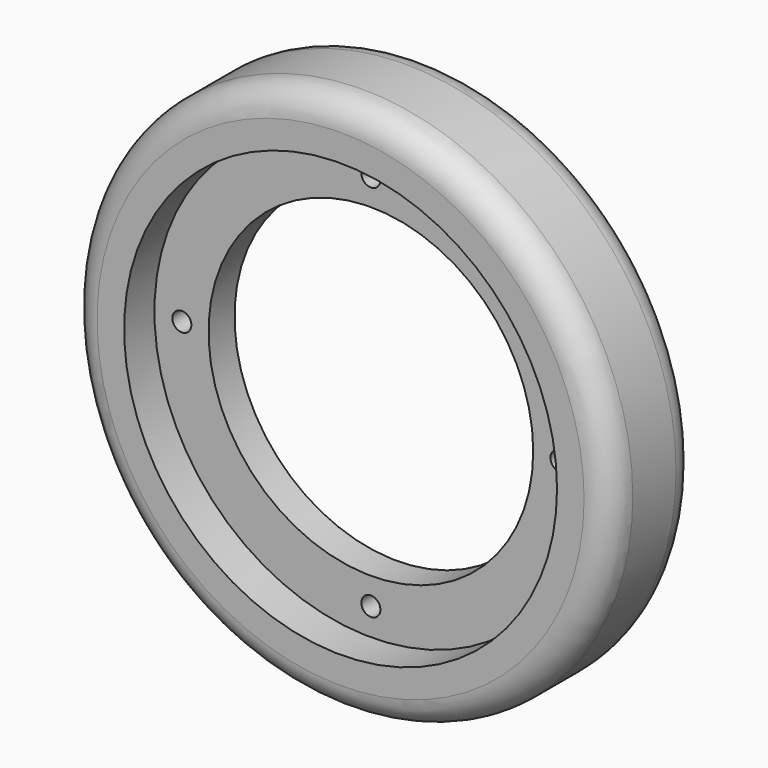
from build123d import *

# Parameters (mm, degrees)
F0_R      = 63.5
F1_DEPTH  = 12.7
F2_R      = 6.35
F3_R      = 50.8
F4_DEPTH  = 8.89
F5_R      = 50.8
F6_DEPTH  = 8.89
F7_R      = 38.1
F8_DEPTH  = 25.401
F9_R      = 2.230901
F10_DEPTH = 16.511


with BuildPart() as f1:
    # F0 (on Front) → F1 (new body, symmetric)
    with BuildSketch(Plane.XZ):
        Circle(F0_R)
    extrude(amount=F1_DEPTH, both=True)

    # F2
    f2_edges = [f1.edges().sort_by_distance(p)[0] for p in [
        (-63.5, -12.7, 0),
        (-63.5, 12.7, 0),
    ]]
    fillet(f2_edges, radius=F2_R)

    # F3 (on face) → F4 (cut)
    with BuildSketch(Plane.XZ.offset(12.7)):
        Circle(F3_R)
    extrude(amount=-F4_DEPTH, mode=Mode.SUBTRACT)

    # F5 (on face) → F6 (cut)
    with BuildSketch(Plane(origin=(0, 12.7, 0), x_dir=(-1, 0, 0), z_dir=(0, 1, 0))):
        Circle(F5_R)
    extrude(amount=-F6_DEPTH, mode=Mode.SUBTRACT)

    # F7 (on face) → F8 (cut, through all)
    with BuildSketch(Plane.XZ.offset(12.7)):
        Circle(F7_R)
    extrude(amount=-F8_DEPTH, mode=Mode.SUBTRACT)

    # F9 (on face) → F10 (cut, through all)
    with BuildSketch(Plane.XZ.offset(3.81)):
        with Locations((-44.369552, 0)):
            Circle(F9_R)
        with Locations((0, 44.369552)):
            Circle(F9_R)
        with Locations((44.369552, 0)):
            Circle(F9_R)
        with Locations((0, -44.369552)):
            Circle(F9_R)
    extrude(amount=-F10_DEPTH, mode=Mode.SUBTRACT)


solid = f1.part
